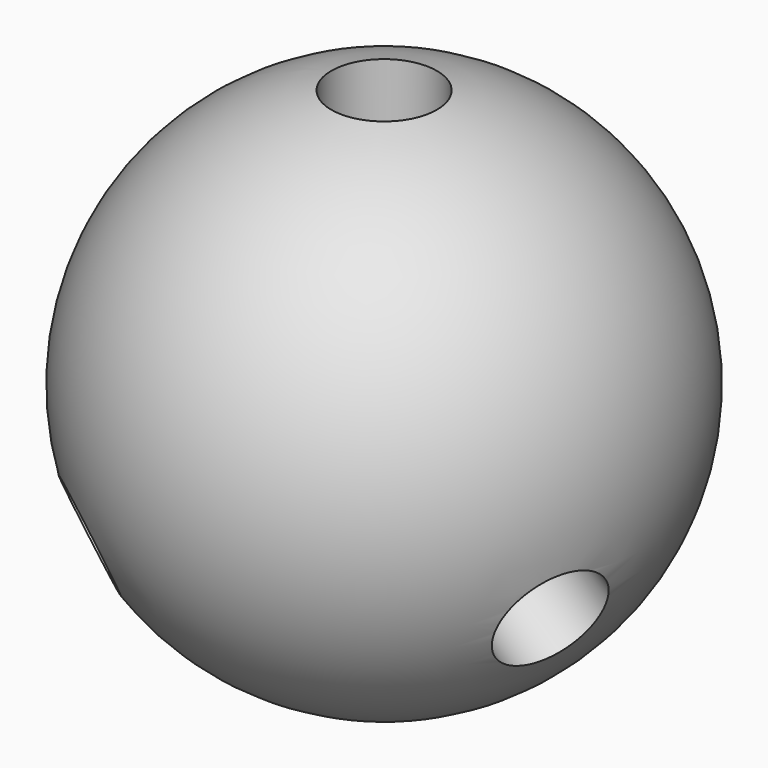
from build123d import *

# Parameters (mm, degrees)
F4_R     = 3.175
F5_DEPTH = 50.8
F7_ANGLE = 113.4
F8_ANGLE = 108.2
F9_ANGLE = 108.8


with BuildPart() as f2:
    # F0 (on Front) → F2 (revolve)
    with BuildSketch(Plane.XZ):
        with BuildLine():
            Line((0, -15.875), (0, 15.875))
            ThreePointArc((0, 15.875), (-15.875, 0), (0, -15.875))
        make_face()
    revolve(axis=Axis((0, 0, 0), (0, 0, 1)))


with BuildPart() as f5:
    # F4 (on offset) → F5 (new body)
    with BuildSketch(Plane.XY.offset(10.16)):
        Circle(F4_R)
    extrude(amount=F5_DEPTH)


with BuildPart() as f7_1:
    # F7: copy of F5
    add(f5.part.rotate(Axis((-36.3165959716, 0, 0), (-1, 0, 0)), F7_ANGLE))


with BuildPart() as f8_1:
    # F8: copy of F7_1
    add(f7_1.part.rotate(Axis((0, 0, -29.0343631059), (0, 0, -1)), F8_ANGLE))


with BuildPart() as f9_1:
    # F9: copy of F8_1
    add(f8_1.part.rotate(Axis((0, 0, -29.0343631059), (0, 0, -1)), F9_ANGLE))


with BuildPart() as f2_1:
    add(f2.part)

    # F10: cut F5, F7_1, F9_1, F8_1
    add(f5.part, mode=Mode.SUBTRACT)
    add(f7_1.part, mode=Mode.SUBTRACT)
    add(f9_1.part, mode=Mode.SUBTRACT)
    add(f8_1.part, mode=Mode.SUBTRACT)


solid = f2_1.part
